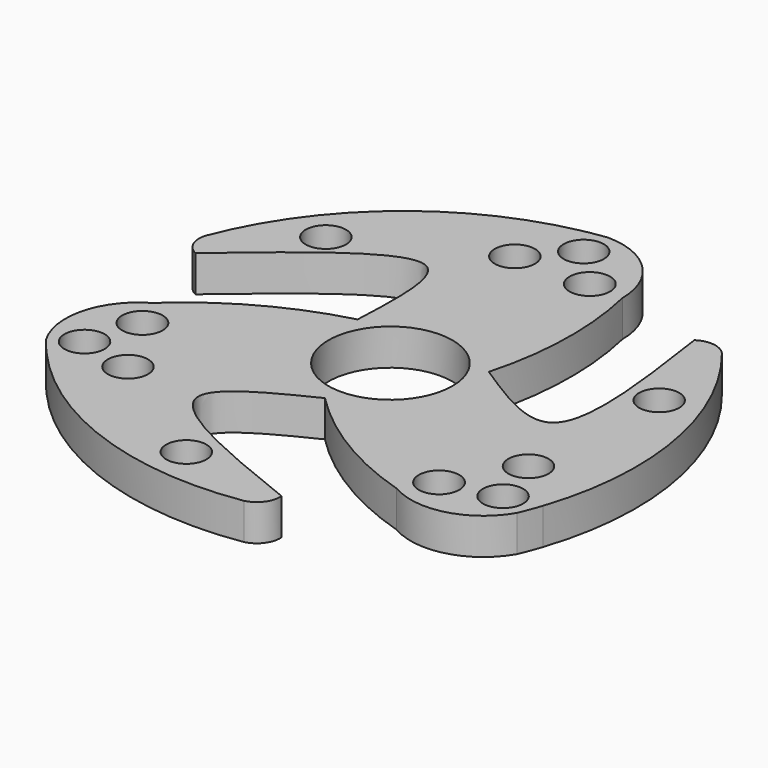
from build123d import *

# Parameters (mm, degrees)
F0_R     = 3.6
F0_R_2   = 3.625
F0_R_3   = 11.1
F1_DEPTH = 6.5


with BuildPart() as f1:
    # F0 (on Top) → F1 (new body)
    with BuildSketch(Plane.XY):
        with BuildLine():
            add(Edge.make_bspline(
                [(-41.9615497958, 8.9646982505), (-30.569933299, 18.648762587), (-10.4654788804, 35.7396495649), (-11.3357932008, 16.00177224), (-11.7129686992, 7.4478009422)],
                knots=[0, 0, 0, 0, 0.5666215188, 1, 1, 1, 1], degree=3))
            ThreePointArc((-11.7129686992, 7.4478009422), (-9.5564167843, 17.8339532115), (-10.6477440022, 28.385345538))
            ThreePointArc((-10.6477440022, 28.385345538), (-12.0864234677, 31.2141495186), (-12.7968132244, 34.3072510298))
            ThreePointArc((-12.7968132244, 34.3072510298), (-10.809160747, 42.6668712415), (-4.0406760994, 47.9604171261))
            ThreePointArc((-4.0406760994, 47.9604171261), (-28.4395123023, 36.0950208303), (-44.1400961488, 13.9685094878))
            ThreePointArc((-44.1400961488, 13.9685094878), (-43.969487255, 11.0666381974), (-41.9615497958, 8.9646982505))
        make_face()
        with Locations((-30.7498083919, 24.1402272244)):
            Circle(F0_R, mode=Mode.SUBTRACT)
        with BuildLine():
            ThreePointArc((-12.7968132244, 34.3072510298), (-12.0864234677, 31.2141495186), (-10.6477440022, 28.385345538))
            ThreePointArc((-10.6477440022, 28.385345538), (-11.5872203484, 31.3953111499), (-12.7968132244, 34.3072510298))
        make_face()
        with BuildLine():
            ThreePointArc((10.1354725507, 9.7838140319), (11.2789155437, 8.1156101199), (12.5178738246, 6.5170643594))
            ThreePointArc((12.5178738246, 6.5170643594), (11.4452241776, 8.2368970077), (10.1354725507, 9.7838140319))
        make_face()
        with BuildLine():
            ThreePointArc((36.3207621947, -5.9740237918), (33.2868628312, -5.0426886121), (30.1177069889, -4.8742195868))
            ThreePointArc((30.1177069889, -4.8742195868), (33.1941518464, -5.5655920107), (36.3207621947, -5.9740237918))
        make_face()
        with BuildLine():
            ThreePointArc((-13.3508562664, 3.7512060808), (-12.4778707964, 5.5755587165), (-11.7129686992, 7.4478009422))
            ThreePointArc((-11.7129686992, 7.4478009422), (-12.6660626394, 5.6589427744), (-13.3508562664, 3.7512060808))
        make_face()
        with BuildLine():
            ThreePointArc((12.5178738246, 6.5170643594), (13.7237945853, 3.3508166981), (14.1337720544, -0.0124090761))
            ThreePointArc((14.1337720544, -0.0124090761), (11.1963438517, -8.5925900316), (3.6166998789, -13.572247341))
            ThreePointArc((3.6166998789, -13.572247341), (1.622154625, -13.9330670104), (-0.4035889622, -14.0020925299))
            ThreePointArc((-0.4035889622, -14.0020925299), (11.1232254291, -23.092711045), (24.5173530526, -29.1013831282))
            ThreePointArc((24.5173530526, -29.1013831282), (18.3513531402, -14.9151788691), (30.1177069889, -4.8742195868))
            ThreePointArc((30.1177069889, -4.8742195868), (20.43426958, -0.5436405181), (12.5178738246, 6.5170643594))
        make_face()
        with BuildLine():
            ThreePointArc((-0.4035889622, -14.0020925299), (1.622154625, -13.9330670104), (3.6166998789, -13.572247341))
            ThreePointArc((3.6166998789, -13.572247341), (1.6002714159, -13.7283960646), (-0.4035889622, -14.0020925299))
        make_face()
        with BuildLine():
            ThreePointArc((-23.1226328071, -28.3704544662), (-20.7991232003, -26.2086881348), (-19.0686468235, -23.5483531795))
            ThreePointArc((-19.0686468235, -23.5483531795), (-21.2056153348, -25.8669463675), (-23.1226328071, -28.3704544662))
        make_face()
        with BuildLine():
            ThreePointArc((-23.1226328071, -28.3704544662), (-21.2056153348, -25.8669463675), (-19.0686468235, -23.5483531795))
            ThreePointArc((-19.0686468235, -23.5483531795), (-18.0838090314, -20.7709268889), (-17.7498089439, -17.843052879))
            ThreePointArc((-17.7498089439, -17.843052879), (-24.2498089439, -6.5847226298), (-37.2498089439, -6.5847226298))
            ThreePointArc((-37.2498089439, -6.5847226298), (-43.3068446856, -14.4784052926), (-42.0081391931, -24.343052879))
            ThreePointArc((-42.0081391931, -24.343052879), (-40.6980388825, -26.0044707959), (-39.3246900511, -27.6140003252))
            ThreePointArc((-39.3246900511, -27.6140003252), (-31.3561025152, -30.8289070328), (-23.1226328071, -28.3704544662))
        make_face()
        with Locations((-27.8237756349, -23.7863854433)):
            Circle(F0_R, mode=Mode.SUBTRACT)
        with Locations((-37.316566437, -21.6343720853)):
            Circle(F0_R, mode=Mode.SUBTRACT)
        with Locations((-34.5340873465, -12.1637846242)):
            Circle(F0_R_2, mode=Mode.SUBTRACT)
        with BuildLine():
            ThreePointArc((-19.0686468235, -23.5483531795), (-10.4765366325, -17.3275399217), (-0.4035889622, -14.0020925299))
            ThreePointArc((-0.4035889622, -14.0020925299), (-11.1776800688, -8.2617151599), (-13.3508562664, 3.7512060808))
            ThreePointArc((-13.3508562664, 3.7512060808), (-12.6660626394, 5.6589427744), (-11.7129686992, 7.4478009422))
            ThreePointArc((-11.7129686992, 7.4478009422), (-25.349082465, 2.0105961121), (-37.2498089439, -6.5847226298))
            ThreePointArc((-37.2498089439, -6.5847226298), (-24.2498089439, -6.5847226298), (-17.7498089439, -17.843052879))
            ThreePointArc((-17.7498089439, -17.843052879), (-18.0838090314, -20.7709268889), (-19.0686468235, -23.5483531795))
        make_face()
        with BuildLine():
            ThreePointArc((3.6166998789, -13.572247341), (11.1963438517, -8.5925900316), (14.1337720544, -0.0124090761))
            ThreePointArc((14.1337720544, -0.0124090761), (13.7237945853, 3.3508166981), (12.5178738246, 6.5170643594))
            ThreePointArc((12.5178738246, 6.5170643594), (11.2789155437, 8.1156101199), (10.1354725507, 9.7838140319))
            ThreePointArc((10.1354725507, 9.7838140319), (-1.3546105162, 13.9082488582), (-11.7129686992, 7.4478009422))
            ThreePointArc((-11.7129686992, 7.4478009422), (-12.4778707964, 5.5755587165), (-13.3508562664, 3.7512060808))
            ThreePointArc((-13.3508562664, 3.7512060808), (-11.1776800688, -8.2617151599), (-0.4035889622, -14.0020925299))
            ThreePointArc((-0.4035889622, -14.0020925299), (1.6002714159, -13.7283960646), (3.6166998789, -13.572247341))
        make_face()
        with Locations((0.1337720544, -0.0124090761)):
            Circle(F0_R_3, mode=Mode.SUBTRACT)
        with BuildLine():
            ThreePointArc((10.1354725507, 9.7838140319), (11.4452241776, 8.2368970077), (12.5178738246, 6.5170643594))
            ThreePointArc((12.5178738246, 6.5170643594), (14.6271731991, 21.0448877045), (13.1337720544, 35.6488785297))
            ThreePointArc((13.1337720544, 35.6488785297), (3.931158739, 23.2158638362), (-10.6477440022, 28.385345538))
            ThreePointArc((-10.6477440022, 28.385345538), (-9.5564167843, 17.8339532115), (-11.7129686992, 7.4478009422))
            ThreePointArc((-11.7129686992, 7.4478009422), (-1.3546105162, 13.9082488582), (10.1354725507, 9.7838140319))
        make_face()
        with BuildLine():
            ThreePointArc((-10.6477440022, 28.385345538), (3.931158739, 23.2158638362), (13.1337720544, 35.6488785297))
            ThreePointArc((13.1337720544, 35.6488785297), (9.3261602098, 44.8412666851), (0.1337720544, 48.6488785297))
            ThreePointArc((0.1337720544, 48.6488785297), (-1.9601082232, 48.3450073376), (-4.0406760994, 47.9604171261))
            ThreePointArc((-4.0406760994, 47.9604171261), (-10.809160747, 42.6668712415), (-12.7968132244, 34.3072510298))
            ThreePointArc((-12.7968132244, 34.3072510298), (-11.5872203484, 31.3953111499), (-10.6477440022, 28.385345538))
        make_face()
        with Locations((-6.4763215839, 36.0865256339)):
            Circle(F0_R, mode=Mode.SUBTRACT)
        with Locations((0.1337720544, 43.2315169424)):
            Circle(F0_R, mode=Mode.SUBTRACT)
        with Locations((6.9443018392, 36.0865256339)):
            Circle(F0_R_2, mode=Mode.SUBTRACT)
        with BuildLine():
            add(Edge.make_bspline(
                [(28.9558359768, 31.9546553634), (31.0677227866, 17.411849131), (34.7506167144, -7.9491751987), (19.1658477828, 2.1914089811), (12.5178738246, 6.5170643594)],
                knots=[0, 0, 0, 0, 0.5734313427, 1, 1, 1, 1], degree=3))
            ThreePointArc((12.5178738246, 6.5170643594), (20.43426958, -0.5436405181), (30.1177069889, -4.8742195868))
            ThreePointArc((30.1177069889, -4.8742195868), (33.2868628312, -5.0426886121), (36.3207621947, -5.9740237918))
            ThreePointArc((36.3207621947, -5.9740237918), (41.9247890219, -10.770016715), (44.0173530526, -17.843052879))
            ThreePointArc((44.0173530526, -17.843052879), (43.9545335877, -19.1195166673), (43.7666823137, -20.3836440292))
            ThreePointArc((43.7666823137, -20.3836440292), (45.6903657971, 6.6790660932), (34.3785368006, 31.3394262297))
            ThreePointArc((34.3785368006, 31.3394262297), (31.7801380977, 32.6426102387), (28.9558359768, 31.9546553634))
        make_face()
        with Locations((36.4923588821, 14.657238)):
            Circle(F0_R, mode=Mode.SUBTRACT)
        with BuildLine():
            ThreePointArc((36.3207621947, -5.9740237918), (33.1941518464, -5.5655920107), (30.1177069889, -4.8742195868))
            ThreePointArc((30.1177069889, -4.8742195868), (18.3513531402, -14.9151788691), (24.5173530526, -29.1013831282))
            ThreePointArc((24.5173530526, -29.1013831282), (34.382000639, -30.4000886207), (42.2756833018, -24.343052879))
            ThreePointArc((42.2756833018, -24.343052879), (43.0594632689, -22.3777637701), (43.7666823137, -20.3836440292))
            ThreePointArc((43.7666823137, -20.3836440292), (43.9545335877, -19.1195166673), (44.0173530526, -17.843052879))
            ThreePointArc((44.0173530526, -17.843052879), (41.9247890219, -10.770016715), (36.3207621947, -5.9740237918))
        make_face()
        with Locations((27.9911016704, -23.959968238)):
            Circle(F0_R_2, mode=Mode.SUBTRACT)
        with Locations((34.701413382, -12.3373674189)):
            Circle(F0_R, mode=Mode.SUBTRACT)
        with Locations((37.5841105458, -21.6343720853)):
            Circle(F0_R, mode=Mode.SUBTRACT)
        with BuildLine():
            add(Edge.make_bspline(
                [(13.4070299822, -40.9565808422), (-0.38617217, -35.4591540627), (-24.4370750547, -25.8734120334), (-7.5892007885, -17.5514192272), (-0.4035889622, -14.0020925299)],
                knots=[0, 0, 0, 0, 0.5735003887, 1, 1, 1, 1], degree=3))
            ThreePointArc((-0.4035889622, -14.0020925299), (-10.4765366325, -17.3275399217), (-19.0686468235, -23.5483531795))
            ThreePointArc((-19.0686468235, -23.5483531795), (-20.7991232003, -26.2086881348), (-23.1226328071, -28.3704544662))
            ThreePointArc((-23.1226328071, -28.3704544662), (-31.3561025152, -30.8289070328), (-39.3246900511, -27.6140003252))
            ThreePointArc((-39.3246900511, -27.6140003252), (-16.8495373316, -42.8113141518), (10.1628755114, -45.3451629458))
            ThreePointArc((10.1628755114, -45.3451629458), (12.5906653205, -43.7464756645), (13.4070299822, -40.9565808422))
        make_face()
        with Locations((-5.3412343271, -38.8346924526)):
            Circle(F0_R, mode=Mode.SUBTRACT)
    extrude(amount=F1_DEPTH)


solid = f1.part
